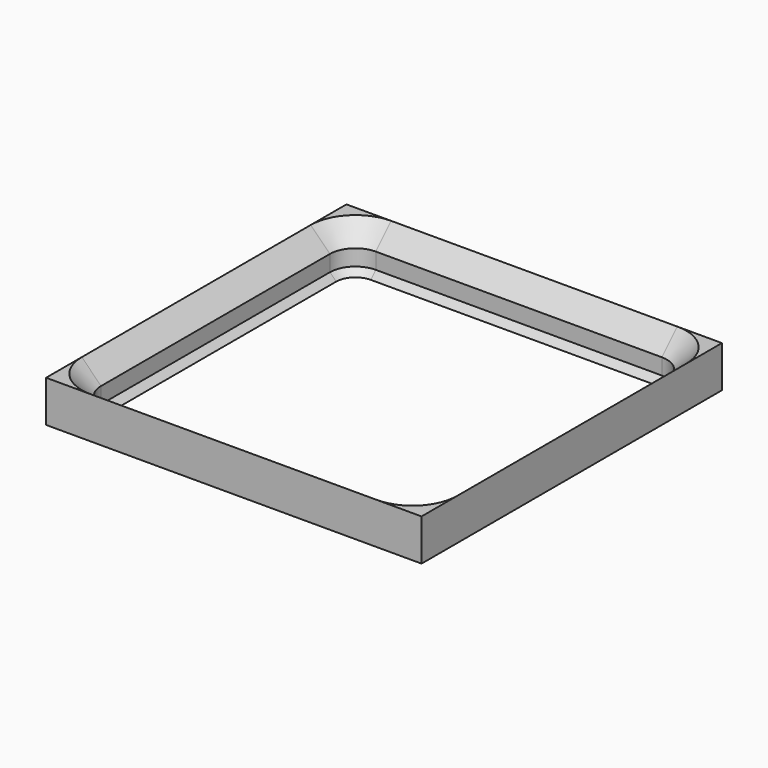
from build123d import *

# Parameters (mm, degrees)
SKETCH001_W = 42
SKETCH001_H = 42
PAD_DEPTH   = 4.65


with BuildPart() as part:
    # Sketch001 → Pad (new body)
    with BuildSketch(Plane.XY):
        Rectangle(SKETCH001_W, SKETCH001_H)
        with BuildLine():
            Line((-16, -18.15), (16, -18.15))
            ThreePointArc((16, -18.15), (17.52028, -17.52028), (18.15, -16))
            Line((18.15, -16), (18.15, 16))
            ThreePointArc((18.15, 16), (17.52028, 17.52028), (16, 18.15))
            Line((16, 18.15), (-16, 18.15))
            ThreePointArc((-16, 18.15), (-17.52028, 17.52028), (-18.15, 16))
            Line((-18.15, 16), (-18.15, -16))
            ThreePointArc((-18.15, -16), (-17.52028, -17.52028), (-16, -18.15))
        make_face(mode=Mode.SUBTRACT)
    extrude(amount=-PAD_DEPTH)

    # SubtractivePipe: sweep along a path in Sketch002
    with BuildLine(Plane.XY) as subtractivepipe_path:
        Line((-16, -21), (16, -21))
        ThreePointArc((16, -21), (19.535534, -19.535534), (21, -16))
        Line((21, -16), (21, 16))
        ThreePointArc((21, 16), (19.535534, 19.535534), (16, 21))
        Line((16, 21), (-16, 21))
        ThreePointArc((-16, 21), (-19.535534, 19.535534), (-21, 16))
        Line((-21, 16), (-21, -16))
        ThreePointArc((-21, -16), (-19.535534, -19.535534), (-16, -21))
    # Sketch → SubtractivePipe (sweep, cut)
    with BuildSketch(Plane.XZ):
        Polygon((-21, 0), (-18.85, -2.15), (-18.85, -3.95), (-18.15, -4.65), (-18.15, 0), align=None)
    sweep(path=subtractivepipe_path.line, mode=Mode.SUBTRACT)


solid = part.part
